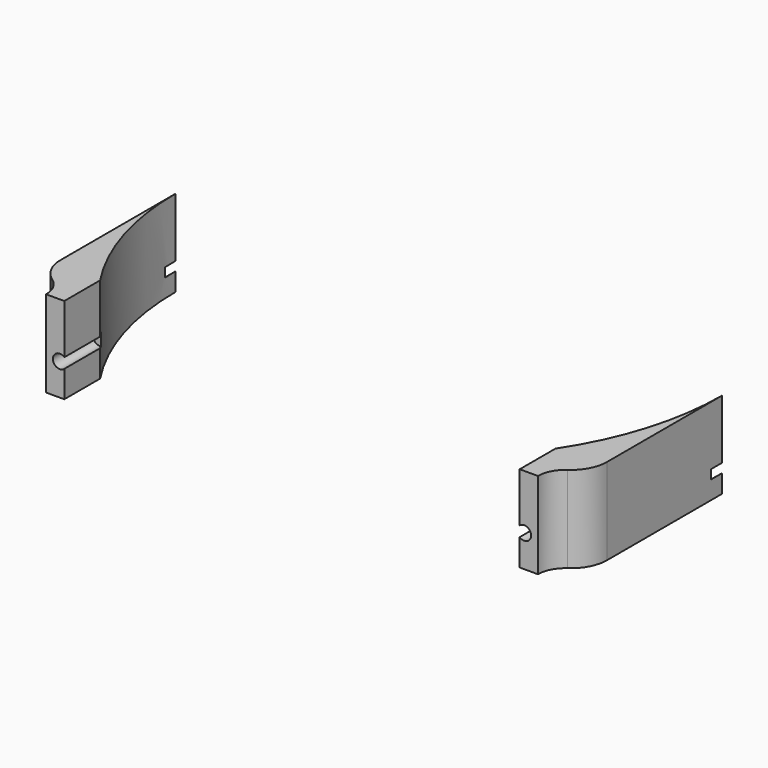
from build123d import *

# Parameters (mm, degrees)
CYLINDER1426_R               = 1.5
CYLINDER1426_DEPTH           = 40
CYLINDER1425_R               = 1.5
CYLINDER1425_DEPTH           = 40
BOX473_W                     = 6
BOX473_H                     = 10
BOX473_DEPTH                 = 2
BOX473_PLACEMENT_ANGLE       = 225
BOX471_W                     = 6
BOX471_H                     = 10
BOX471_DEPTH                 = 2
BOX470_W                     = 6
BOX470_H                     = 10
BOX470_DEPTH                 = 2
BOX470_PLACEMENT_ANGLE       = 45
BOX469_W                     = 6
BOX469_H                     = 10
BOX469_DEPTH                 = 2
BOX468_W                     = 6
BOX468_H                     = 10
BOX468_DEPTH                 = 2
BOX468_PLACEMENT_ANGLE       = 45
BOX467_W                     = 6
BOX467_H                     = 10
BOX467_DEPTH                 = 2
BOX466_W                     = 6
BOX466_H                     = 10
BOX466_DEPTH                 = 2
BOX466_PLACEMENT_ANGLE       = 135
BOX472_W                     = 6
BOX472_H                     = 10
BOX472_DEPTH                 = 2
CYLINDER1424_R               = 60
CYLINDER1424_DEPTH           = 33
CYLINDER1416_R               = 6
CYLINDER1416_DEPTH           = 33
CYLINDER1414_R               = 6
CYLINDER1414_DEPTH           = 33
CYLINDER1422_R               = 1.5
CYLINDER1422_DEPTH           = 50
CYLINDER1422_PLACEMENT_ANGLE = 45
CYLINDER1418_R               = 1.5
CYLINDER1418_DEPTH           = 50
CYLINDER1415_R               = 1.5
CYLINDER1415_DEPTH           = 50
CYLINDER1415_PLACEMENT_ANGLE = 135
CYLINDER1419_R               = 1.5
CYLINDER1419_DEPTH           = 50
CYLINDER1417_R               = 1.5
CYLINDER1417_DEPTH           = 50
CYLINDER1417_PLACEMENT_ANGLE = 225
CYLINDER1420_R               = 1.5
CYLINDER1420_DEPTH           = 50
CYLINDER1423_R               = 1.5
CYLINDER1423_DEPTH           = 50
CYLINDER1423_PLACEMENT_ANGLE = 45
CYLINDER1421_R               = 1.5
CYLINDER1421_DEPTH           = 50
BOX465_W                     = 10
BOX465_H                     = 43
BOX465_DEPTH                 = 19
BOX464_W                     = 10
BOX464_H                     = 43
BOX464_DEPTH                 = 19
FILLET019_R                  = 8


with BuildPart() as obj1:
    # Cylinder1426 → Cylinder1426 (new body)
    with BuildSketch(Plane(origin=(51, -40, 25), x_dir=(1, 0, 0), z_dir=(0, -1, 0))):
        Circle(CYLINDER1426_R)
    extrude(amount=CYLINDER1426_DEPTH)


with BuildPart() as compound856:
    # Cylinder1425 → Cylinder1425 (new body)
    with BuildSketch(Plane(origin=(-51, -40, 25), x_dir=(1, 0, 0), z_dir=(0, -1, 0))):
        Circle(CYLINDER1425_R)
    extrude(amount=CYLINDER1425_DEPTH)

    # Compound856: union obj1
    add(obj1.part)


with BuildPart() as compound856_1:
    # Compound856 placement: moved
    add(compound856.part.moved(Location((0, 8, 2))))


with BuildPart() as krychle473:
    # Box473 → Box473 (new body)
    with BuildSketch(Plane.XY):
        with Locations((3, 5)):
            Rectangle(BOX473_W, BOX473_H)
    extrude(amount=BOX473_DEPTH)


with BuildPart() as krychle473_1:
    # Box473 placement: moved
    add(krychle473.part.moved(Location((-41.7193, 45.961941, 23))).rotate(Axis((-41.7193, 45.961941, 23), (0, 0, 1)), BOX473_PLACEMENT_ANGLE))


with BuildPart() as krychle471:
    # Box471 → Box471 (new body)
    with BuildSketch(Plane(origin=(-62, 3, 23), x_dir=(0, -1, 0), z_dir=(0, 0, 1))):
        with Locations((3, 5)):
            Rectangle(BOX471_W, BOX471_H)
    extrude(amount=BOX471_DEPTH)


with BuildPart() as krychle470:
    # Box470 → Box470 (new body)
    with BuildSketch(Plane.XY):
        with Locations((3, 5)):
            Rectangle(BOX470_W, BOX470_H)
    extrude(amount=BOX470_DEPTH)


with BuildPart() as krychle470_1:
    # Box470 placement: moved
    add(krychle470.part.moved(Location((-45.961941, -41.7193, 23))).rotate(Axis((-45.961941, -41.7193, 23), (0, 0, -1)), BOX470_PLACEMENT_ANGLE))


with BuildPart() as krychle469:
    # Box469 → Box469 (new body)
    with BuildSketch(Plane(origin=(-3, -62, 23), x_dir=(1, 0, 0), z_dir=(0, 0, 1))):
        with Locations((3, 5)):
            Rectangle(BOX469_W, BOX469_H)
    extrude(amount=BOX469_DEPTH)


with BuildPart() as krychle468:
    # Box468 → Box468 (new body)
    with BuildSketch(Plane.XY):
        with Locations((3, 5)):
            Rectangle(BOX468_W, BOX468_H)
    extrude(amount=BOX468_DEPTH)


with BuildPart() as krychle468_1:
    # Box468 placement: moved
    add(krychle468.part.moved(Location((41.7193, -45.961941, 23))).rotate(Axis((41.7193, -45.961941, 23), (0, 0, 1)), BOX468_PLACEMENT_ANGLE))


with BuildPart() as krychle467:
    # Box467 → Box467 (new body)
    with BuildSketch(Plane(origin=(62, -3, 23), x_dir=(0, 1, 0), z_dir=(0, 0, 1))):
        with Locations((3, 5)):
            Rectangle(BOX467_W, BOX467_H)
    extrude(amount=BOX467_DEPTH)


with BuildPart() as krychle466:
    # Box466 → Box466 (new body)
    with BuildSketch(Plane.XY):
        with Locations((3, 5)):
            Rectangle(BOX466_W, BOX466_H)
    extrude(amount=BOX466_DEPTH)


with BuildPart() as krychle466_1:
    # Box466 placement: moved
    add(krychle466.part.moved(Location((45.961941, 41.7193, 23))).rotate(Axis((45.961941, 41.7193, 23), (0, 0, 1)), BOX466_PLACEMENT_ANGLE))


with BuildPart() as compound857:
    # Box472 → Box472 (new body)
    with BuildSketch(Plane(origin=(3, 62, 23), x_dir=(-1, 0, 0), z_dir=(0, 0, 1))):
        with Locations((3, 5)):
            Rectangle(BOX472_W, BOX472_H)
    extrude(amount=BOX472_DEPTH)

    # Compound857: union Krychle473, Krychle471, Krychle470, Krychle469, Krychle468, Krychle467, Krychle466
    add(krychle473_1.part)
    add(krychle471.part)
    add(krychle470_1.part)
    add(krychle469.part)
    add(krychle468_1.part)
    add(krychle467.part)
    add(krychle466_1.part)


with BuildPart() as compound857_1:
    # Compound857 placement: moved
    add(compound857.part.moved(Location((0, 0, 1))))


with BuildPart() as obj2:
    # Cylinder1424 → Cylinder1424 (new body)
    with BuildSketch(Plane.XY.offset(20)):
        Circle(CYLINDER1424_R)
    extrude(amount=CYLINDER1424_DEPTH)


with BuildPart() as obj3:
    # Cylinder1416 → Cylinder1416 (new body)
    with BuildSketch(Plane(origin=(-60, -43, 10), x_dir=(1, 0, 0), z_dir=(0, 0, 1))):
        Circle(CYLINDER1416_R)
    extrude(amount=CYLINDER1416_DEPTH)


with BuildPart() as compound858:
    # Cylinder1414 → Cylinder1414 (new body)
    with BuildSketch(Plane(origin=(60, -43, 10), x_dir=(1, 0, 0), z_dir=(0, 0, 1))):
        Circle(CYLINDER1414_R)
    extrude(amount=CYLINDER1414_DEPTH)

    # Compound858: union obj3
    add(obj3.part)


with BuildPart() as obj4:
    # Cylinder1422 → Cylinder1422 (new body)
    with BuildSketch(Plane.XY):
        Circle(CYLINDER1422_R)
    extrude(amount=CYLINDER1422_DEPTH)


with BuildPart() as obj4_1:
    # Cylinder1422 placement: moved
    add(obj4.part.moved(Location((39.59798, -39.59798, 2))).rotate(Axis((39.59798, -39.59798, 2), (0, 0, 1)), CYLINDER1422_PLACEMENT_ANGLE))


with BuildPart() as obj5:
    # Cylinder1418 → Cylinder1418 (new body)
    with BuildSketch(Plane(origin=(56, 0, 2), x_dir=(0, 1, 0), z_dir=(0, 0, 1))):
        Circle(CYLINDER1418_R)
    extrude(amount=CYLINDER1418_DEPTH)


with BuildPart() as obj6:
    # Cylinder1415 → Cylinder1415 (new body)
    with BuildSketch(Plane.XY):
        Circle(CYLINDER1415_R)
    extrude(amount=CYLINDER1415_DEPTH)


with BuildPart() as obj6_1:
    # Cylinder1415 placement: moved
    add(obj6.part.moved(Location((39.59798, 39.59798, 2))).rotate(Axis((39.59798, 39.59798, 2), (0, 0, 1)), CYLINDER1415_PLACEMENT_ANGLE))


with BuildPart() as obj7:
    # Cylinder1419 → Cylinder1419 (new body)
    with BuildSketch(Plane(origin=(0, 56, 2), x_dir=(-1, 0, 0), z_dir=(0, 0, 1))):
        Circle(CYLINDER1419_R)
    extrude(amount=CYLINDER1419_DEPTH)


with BuildPart() as obj8:
    # Cylinder1417 → Cylinder1417 (new body)
    with BuildSketch(Plane.XY):
        Circle(CYLINDER1417_R)
    extrude(amount=CYLINDER1417_DEPTH)


with BuildPart() as obj8_1:
    # Cylinder1417 placement: moved
    add(obj8.part.moved(Location((-39.59798, 39.59798, 2))).rotate(Axis((-39.59798, 39.59798, 2), (0, 0, 1)), CYLINDER1417_PLACEMENT_ANGLE))


with BuildPart() as obj9:
    # Cylinder1420 → Cylinder1420 (new body)
    with BuildSketch(Plane(origin=(-56, 0, 2), x_dir=(0, -1, 0), z_dir=(0, 0, 1))):
        Circle(CYLINDER1420_R)
    extrude(amount=CYLINDER1420_DEPTH)


with BuildPart() as obj10:
    # Cylinder1423 → Cylinder1423 (new body)
    with BuildSketch(Plane.XY):
        Circle(CYLINDER1423_R)
    extrude(amount=CYLINDER1423_DEPTH)


with BuildPart() as obj10_1:
    # Cylinder1423 placement: moved
    add(obj10.part.moved(Location((-39.59798, -39.59798, 2))).rotate(Axis((-39.59798, -39.59798, 2), (0, 0, -1)), CYLINDER1423_PLACEMENT_ANGLE))


with BuildPart() as compound854:
    # Cylinder1421 → Cylinder1421 (new body)
    with BuildSketch(Plane(origin=(0, -56, 2), x_dir=(1, 0, 0), z_dir=(0, 0, 1))):
        Circle(CYLINDER1421_R)
    extrude(amount=CYLINDER1421_DEPTH)

    # Compound854: union obj4, obj5, obj6, obj7, obj8, obj9, obj10
    add(obj4_1.part)
    add(obj5.part)
    add(obj6_1.part)
    add(obj7.part)
    add(obj8_1.part)
    add(obj9.part)
    add(obj10_1.part)


with BuildPart() as krychle465:
    # Box465 → Box465 (new body)
    with BuildSketch(Plane(origin=(50, -43, 10), x_dir=(1, 0, 0), z_dir=(0, 0, 1))):
        with Locations((5, 21.5)):
            Rectangle(BOX465_W, BOX465_H)
    extrude(amount=BOX465_DEPTH)


with BuildPart() as fillet019:
    # Box464 → Box464 (new body)
    with BuildSketch(Plane(origin=(-60, -43, 10), x_dir=(1, 0, 0), z_dir=(0, 0, 1))):
        with Locations((5, 21.5)):
            Rectangle(BOX464_W, BOX464_H)
    extrude(amount=BOX464_DEPTH)

    # Compound859: union Krychle465
    add(krychle465.part)

    # Cut460: cut Compound854
    add(compound854.part, mode=Mode.SUBTRACT)

    # Cut461: cut Compound858
    add(compound858.part, mode=Mode.SUBTRACT)


with BuildPart() as fillet019_1:
    # Cut461 placement: moved
    add(fillet019.part.moved(Location((0, 0, 10))))

    # Cut465: cut obj2
    add(obj2.part, mode=Mode.SUBTRACT)

    # Cut466: cut Compound857
    add(compound857_1.part, mode=Mode.SUBTRACT)

    # Cut467: cut Compound856
    add(compound856_1.part, mode=Mode.SUBTRACT)


with BuildPart() as fillet019_2:
    # Cut467 placement: moved
    add(fillet019_1.part.moved(Location((0, 0, 12))))

    # Fillet019
    fillet019_edges = [fillet019_2.edges().sort_by_distance(p)[0] for p in [
        (-60, -37, 41.5),
        (60, -37, 41.5),
    ]]
    fillet(fillet019_edges, radius=FILLET019_R)


solid = fillet019_2.part
